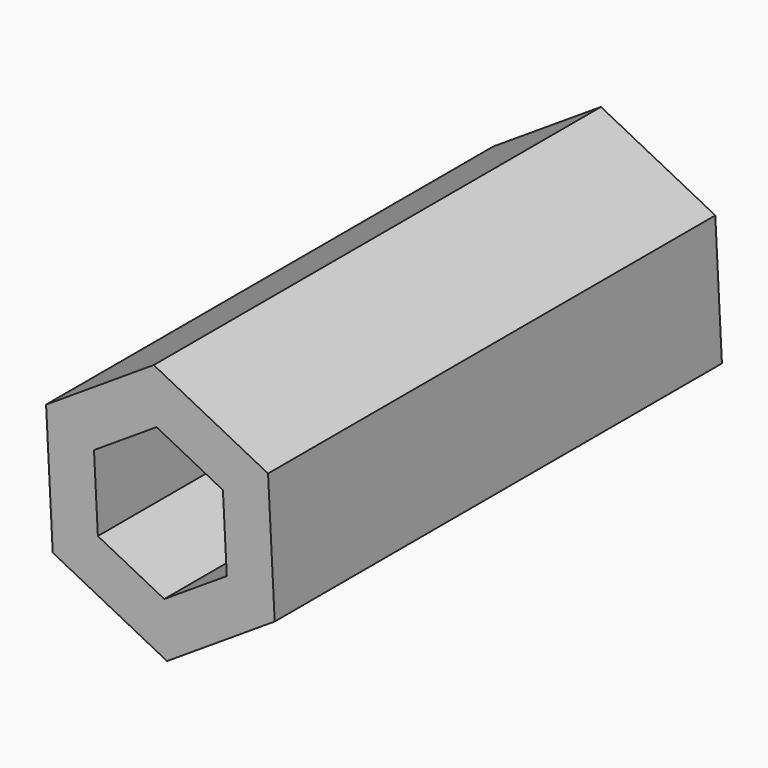
from build123d import *

# Parameters (mm, degrees)
F1_DEPTH = 30
F2_DEPTH = 10


with BuildPart() as f1:
    # F0 (on Front) → F1 (new body)
    with BuildSketch(Plane.XZ):
        Polygon((-27.897622, 24.986569), (-33.67534, 21.23886), (-33.318587, 14.361355), (-27.184117, 11.23156), (-21.406399, 14.979269), (-21.763152, 21.856774), align=None)
        Polygon((-24.185025, 20.285829), (-23.977814, 16.2912), (-27.333658, 14.114435), (-30.896714, 15.9323), (-31.103926, 19.926929), (-27.748081, 22.103694), align=None, mode=Mode.SUBTRACT)
    extrude(amount=F1_DEPTH)

    # F0 (on Front) → F2 (join)
    with BuildSketch(Plane.XZ):
        Polygon((-27.333658, 14.114435), (-23.977814, 16.2912), (-24.185025, 20.285829), (-27.748081, 22.103694), (-31.103926, 19.926929), (-30.896714, 15.9323), align=None)
    extrude(amount=F2_DEPTH)


solid = f1.part
